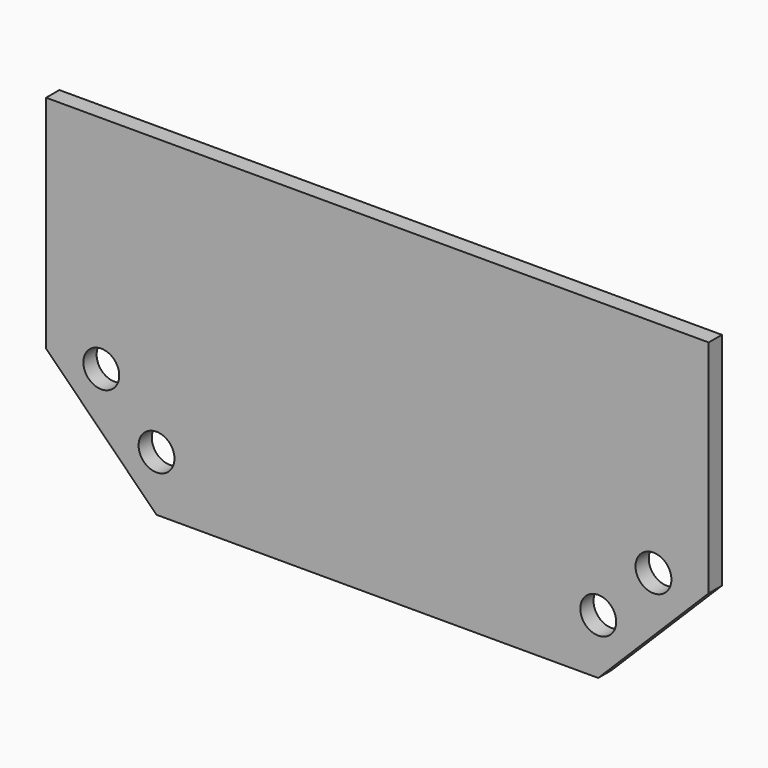
from build123d import *

# Parameters (mm, degrees)
F0_R     = 6.5
F1_DEPTH = 6


with BuildPart() as f1:
    # F0 (on Front) → F1 (new body)
    with BuildSketch(Plane.XZ):
        Polygon((120, 0), (-120, 0), (-120, -80), (-80, -120), (80, -120), (120, -80), align=None)
        with Locations((-80, -100)):
            Circle(F0_R, mode=Mode.SUBTRACT)
        with Locations((-100, -80)):
            Circle(F0_R, mode=Mode.SUBTRACT)
        with Locations((80, -100)):
            Circle(F0_R, mode=Mode.SUBTRACT)
        with Locations((100, -80)):
            Circle(F0_R, mode=Mode.SUBTRACT)
    extrude(amount=F1_DEPTH)


solid = f1.part
